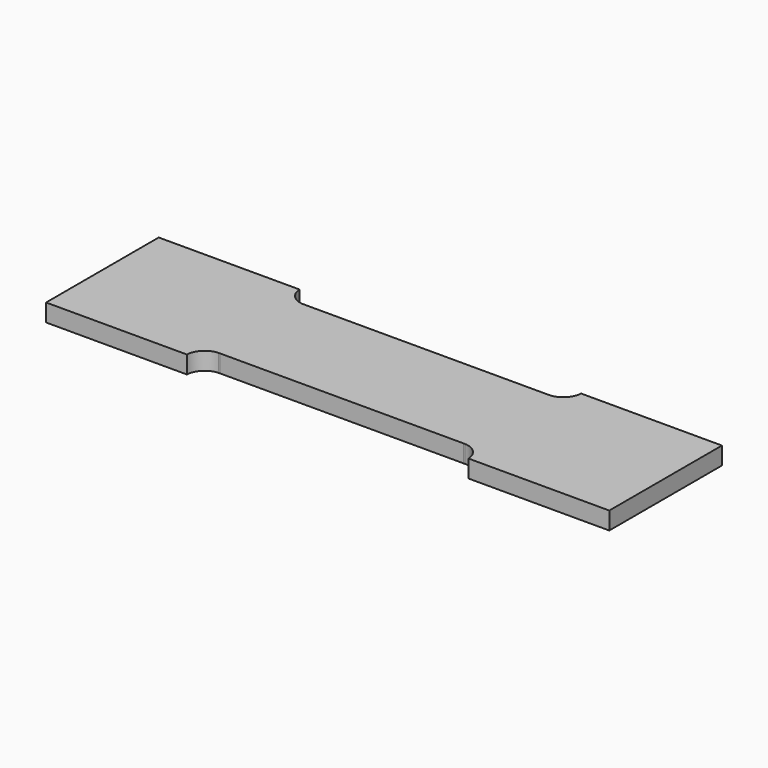
from build123d import *

# Parameters (mm, degrees)
F1_DEPTH = 2.5


with BuildPart() as f1:
    # F0 (on Top) → F1 (new body)
    with BuildSketch(Plane.XY):
        with BuildLine():
            Line((40, -10), (40, 10))
            Line((40, 10), (20, 10))
            ThreePointArc((20, 10), (19.23682, 8.26318), (17.5, 7.5))
            ThreePointArc((17.5, 7.5), (17.388608, 7.497625), (17.277216, 7.5))
            Line((17.277216, 7.5), (-17.277216, 7.5))
            ThreePointArc((-17.277216, 7.5), (-17.388608, 7.497625), (-17.5, 7.5))
            ThreePointArc((-17.5, 7.5), (-19.23682, 8.26318), (-20, 10))
            Line((-20, 10), (-40, 10))
            Line((-40, 10), (-40, -10))
            Line((-40, -10), (-20, -10))
            ThreePointArc((-20, -10), (-19.23682, -8.26318), (-17.5, -7.5))
            ThreePointArc((-17.5, -7.5), (-17.388608, -7.497625), (-17.277216, -7.5))
            Line((-17.277216, -7.5), (17.277216, -7.5))
            ThreePointArc((17.277216, -7.5), (17.388608, -7.497625), (17.5, -7.5))
            ThreePointArc((17.5, -7.5), (19.23682, -8.26318), (20, -10))
            Line((20, -10), (40, -10))
        make_face()
    extrude(amount=F1_DEPTH)


solid = f1.part
